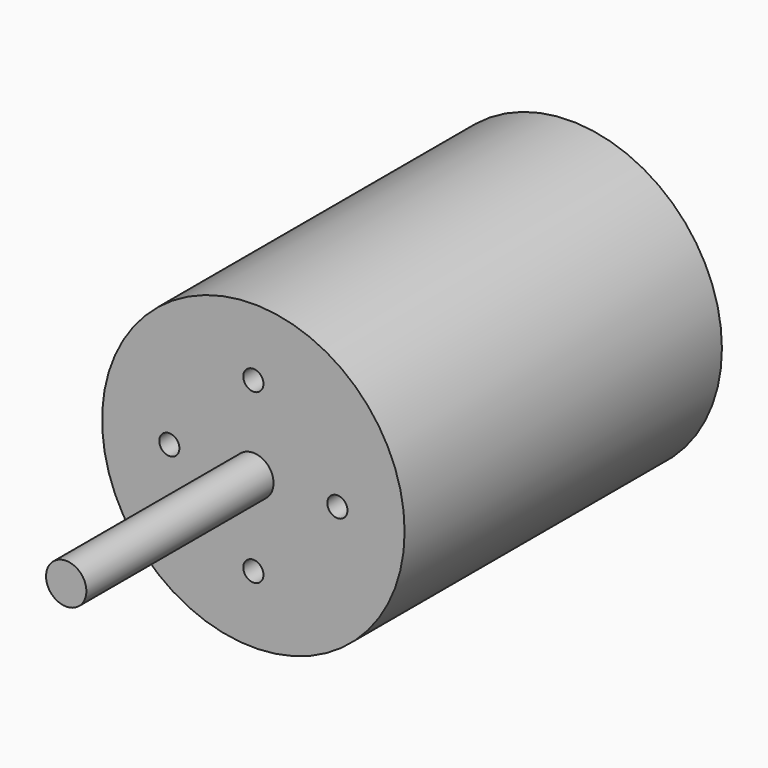
from build123d import *

# Parameters (mm, degrees)
F0_R     = 22.5
F0_R_2   = 3
F1_DEPTH = 59
F2_DEPTH = 93.8
F3_R     = 1.5
F4_DEPTH = 3


with BuildPart() as f1:
    # F0 (on Front) → F1 (new body)
    with BuildSketch(Plane.XZ):
        with Locations((-27.658976, 18.853478)):
            Circle(F0_R)
        with Locations((-27.658976, 18.853478)):
            Circle(F0_R_2, mode=Mode.SUBTRACT)
    extrude(amount=F1_DEPTH)

    # F0 (on Front) → F2 (join)
    with BuildSketch(Plane.XZ):
        with Locations((-27.658976, 18.853478)):
            Circle(F0_R_2)
    extrude(amount=F2_DEPTH)

    # F3 (on face) → F4 (cut)
    with BuildSketch(Plane.XZ.offset(59)):
        with Locations((-27.658976, 31.353478)):
            Circle(F3_R)
        with Locations((-40.158976, 18.853478)):
            Circle(F3_R)
        with Locations((-27.658976, 6.353478)):
            Circle(F3_R)
        with Locations((-15.158976, 18.853478)):
            Circle(F3_R)
    extrude(amount=-F4_DEPTH, mode=Mode.SUBTRACT)


solid = f1.part
